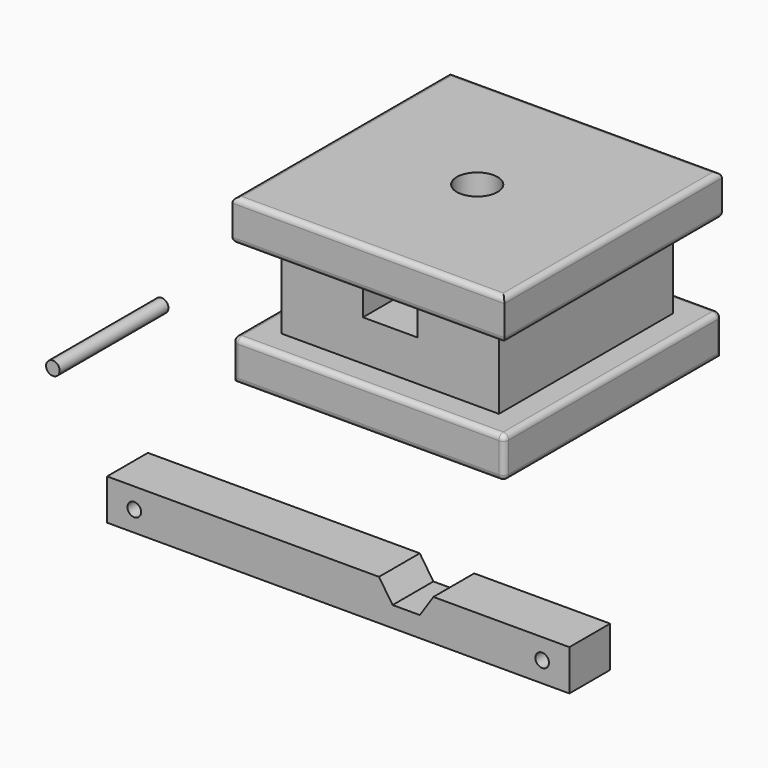
from build123d import *

# Parameters (mm, degrees)
F0_W      = 127
F0_H      = 127
F1_DEPTH  = 19.05
F2_W      = 101.6
F2_H      = 101.6
F3_DEPTH  = 38.1
F4_W      = 127
F4_H      = 127
F4_W_2    = 101.6
F4_H_2    = 101.6
F5_DEPTH  = 19.05
F7_DEPTH  = 101.6
F9_D      = 19.05
F9_DEPTH  = 19.05
F9_TIP    = 5.7231973962
F10_R     = 2.54
F11_R     = 2.54
F12_R     = 2.54
F14_DEPTH = 23.8125
F16_D     = 6.35
F17_R     = 3.175
F18_DEPTH = 63.5
F20_DEPTH = 101.6
F21_R     = 31.75
F22_DEPTH = 38.1


with BuildPart() as f1:
    # F0 (on Top) → F1 (new body)
    with BuildSketch(Plane.XY):
        Rectangle(F0_W, F0_H)
    extrude(amount=F1_DEPTH)

    # F2 (on face) → F3 (join)
    with BuildSketch(Plane.XY.offset(19.05)):
        Rectangle(F2_W, F2_H)
    extrude(amount=F3_DEPTH)

    # F4 (on face) → F5 (join)
    with BuildSketch(Plane.XY.offset(57.15)):
        Rectangle(F4_W, F4_H)
        Rectangle(F4_W_2, F4_H_2, mode=Mode.SUBTRACT)
        Rectangle(F4_W_2, F4_H_2)
    extrude(amount=F5_DEPTH)

    # F6 (on face) → F7 (cut)
    with BuildSketch(Plane.XZ.offset(50.8)):
        Polygon((-12.7, 38.1), (0, 38.1), (12.7, 38.1), (12.7, 57.15), (-12.7, 57.15), align=None)
    extrude(amount=-F7_DEPTH, mode=Mode.SUBTRACT)

    # F9
    with Locations(Plane.XY.offset(76.2)):
        with Locations((0, 0)):
            Hole(F9_D / 2, depth=F9_DEPTH)
            with Locations((0, 0, -(F9_DEPTH + F9_TIP / 2))):  # 118° drill point
                Cone(0, F9_D / 2, F9_TIP, mode=Mode.SUBTRACT)

    # F10
    f10_edges = [f1.edges().sort_by_distance(p)[0] for p in [
        (-63.5, 0, 76.2),
        (0, 63.5, 76.2),
        (63.5, 0, 76.2),
        (0, -63.5, 76.2),
    ]]
    fillet(f10_edges, radius=F10_R)

    # F11
    f11_edges = [f1.edges().sort_by_distance(p)[0] for p in [
        (0, -63.5, 57.15),
        (63.5, 0, 57.15),
        (0, 63.5, 57.15),
        (-63.5, 0, 57.15),
    ]]
    fillet(f11_edges, radius=F11_R)

    # F12
    f12_edges = [f1.edges().sort_by_distance(p)[0] for p in [
        (-63.5, 0, 19.05),
        (0, 63.5, 19.05),
        (63.5, -63.5, 9.525),
        (63.5, 63.5, 9.525),
        (63.5, 0, 0),
        (63.5, 0, 19.05),
        (-63.5, -63.5, 9.525),
        (0, -63.5, 0),
        (0, -63.5, 19.05),
    ]]
    fillet(f12_edges, radius=F12_R)


with BuildPart() as f14:
    # F13 (on face) → F14 (new body)
    with BuildSketch(Plane.XZ.offset(63.5)):
        Polygon((-102.9964814901, -41.8102111943), (-102.9964814901, -60.8602111943), (112.9035185099, -60.8602111943), (112.9035185099, -41.8102111943), (49.4035185099, -41.8102111943), (43.0535185099, -51.3352111943), (36.7035185099, -51.3352111943), (30.3535185099, -51.3352111943), (24.0035185099, -41.8102111943), align=None)
    extrude(amount=F14_DEPTH)

    # F16 (through all)
    with Locations(Plane.XZ.offset(87.3125)):
        with Locations((-90.2964814901, -51.3352111943), (100.2035185099, -51.3352111943)):
            Hole(F16_D / 2)


with BuildPart() as f18:
    # F17 (on face) → F18 (new body)
    with BuildSketch(Plane.XZ.offset(87.3125)):
        with Locations((-128.3167302608, -5.5912164971)):
            Circle(F17_R)
    extrude(amount=-F18_DEPTH)


with BuildPart() as f20:
    # F19 (on Top) → F20 (new body)
    with BuildSketch(Plane.XY):
        with BuildLine():
            Line((-82.8644239783, -340.8923311382), (-44.7644239783, -340.8923311382))
            ThreePointArc((-44.7644239783, -340.8923311382), (-31.2940397967, -335.3127153198), (-25.7144239783, -321.8423311382))
            Line((-25.7144239783, -321.8423311382), (-25.7144239783, -283.7423311382))
            ThreePointArc((-25.7144239783, -283.7423311382), (-31.2940397967, -270.2719469566), (-44.7644239783, -264.6923311382))
            Line((-44.7644239783, -264.6923311382), (-82.8644239783, -264.6923311382))
            ThreePointArc((-82.8644239783, -264.6923311382), (-96.3348081599, -270.2719469566), (-101.9144239783, -283.7423311382))
            Line((-101.9144239783, -283.7423311382), (-101.9144239783, -321.8423311382))
            ThreePointArc((-101.9144239783, -321.8423311382), (-96.3348081599, -335.3127153198), (-82.8644239783, -340.8923311382))
        make_face()
    extrude(amount=F20_DEPTH)

    # F21 (on face) → F22 (join)
    with BuildSketch(Plane(origin=(0, 0, 0), x_dir=(1, 0, 0), z_dir=(0, 0, -1))):
        with Locations((-63.8144239783, 302.7923311382)):
            Circle(F21_R)
    extrude(amount=F22_DEPTH)


solid = Compound([f1.part, f14.part, f18.part])
